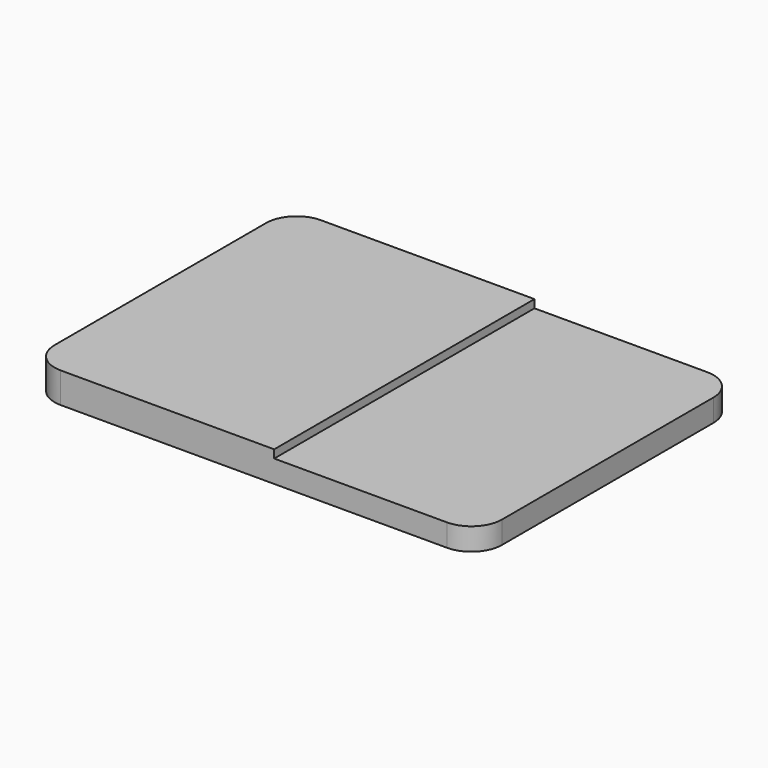
from build123d import *

# Parameters (mm, degrees)
F1_DEPTH = 80
F2_R     = 15


with BuildPart() as f1:
    # F0 (on Front) → F1 (new body, symmetric)
    with BuildSketch(Plane.XZ):
        Polygon((-110, -7.5), (110, -7.5), (110, 3.5), (10, 3.5), (10, 7.5), (-110, 7.5), align=None)
    extrude(amount=F1_DEPTH, both=True)

    # F2
    f2_edges = [f1.edges().sort_by_distance(p)[0] for p in [
        (-110, -80, 0),
        (110, -80, -2),
        (110, 80, -2),
        (-110, 80, 0),
    ]]
    fillet(f2_edges, radius=F2_R)


solid = f1.part
